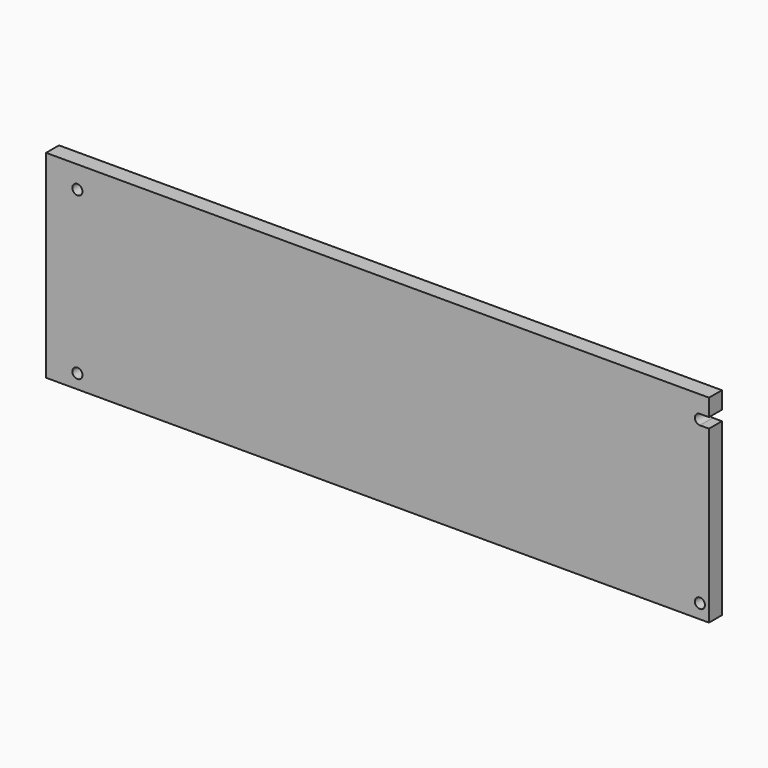
from build123d import *

# Parameters (mm, degrees)
F1_R     = 2.5
F2_DEPTH = 8


with BuildPart() as f2:
    # F1 (on Front) → F2 (new body)
    with BuildSketch(Plane.XZ):
        with BuildLine():
            Line((164, 49), (-164, 49))
            Line((-164, 49), (-164, -49))
            Line((-164, -49), (164, -49))
            Line((164, -49), (164, 35.5))
            Line((164, 35.5), (159.5, 35.5))
            ThreePointArc((159.5, 35.5), (157, 38), (159.5, 40.5))
            Line((159.5, 40.5), (164, 40.5))
            Line((164, 40.5), (164, 49))
        make_face()
        with Locations((-148.5, -42)):
            Circle(F1_R, mode=Mode.SUBTRACT)
        with Locations((159.5, -42)):
            Circle(F1_R, mode=Mode.SUBTRACT)
        with Locations((-148.5, 38)):
            Circle(F1_R, mode=Mode.SUBTRACT)
    extrude(amount=F2_DEPTH)


solid = f2.part
